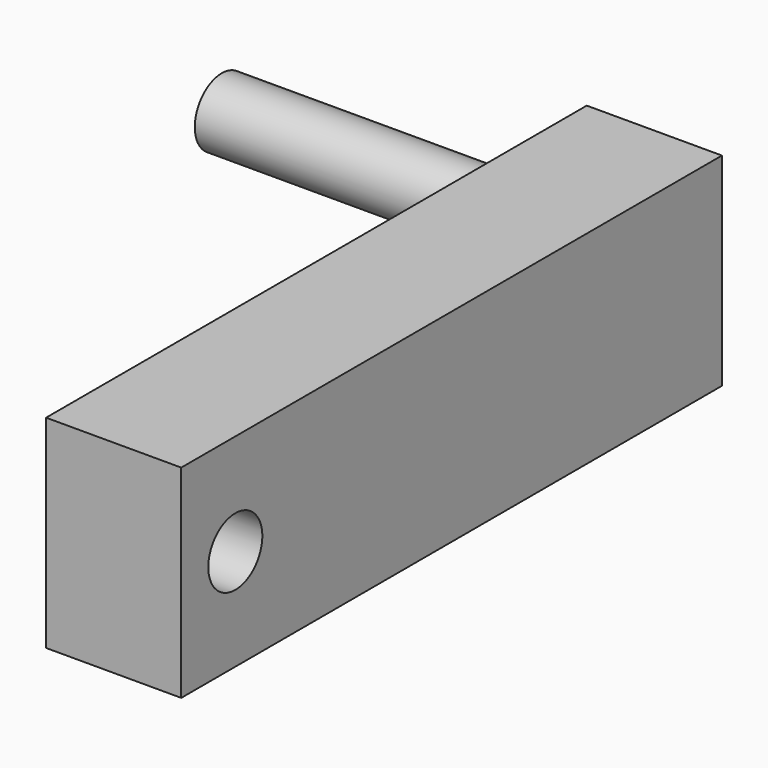
from build123d import *

# Parameters (mm, degrees)
F1_DEPTH = 35.56
F0_R     = 2.54
F2_DEPTH = 10.16
F3_DEPTH = 10.16


with BuildPart() as f1:
    # F0 (on Right) → F1 (new body)
    with BuildSketch(Plane.YZ):
        with BuildLine():
            ThreePointArc((29.046643, 0), (26.506643, 2.54), (23.966643, 0))
            ThreePointArc((23.966643, 0), (26.506643, -2.54), (29.046643, 0))
        make_face()
    extrude(amount=-F1_DEPTH)

    # F0 (on Right) → F2 (join)
    with BuildSketch(Plane.YZ):
        Polygon((23.966643, 7.62), (-21.753357, 7.62), (-21.753357, -7.62), (23.966643, -7.62), (23.966643, 0), align=None)
        with Locations((-16.673357, 0)):
            Circle(F0_R, mode=Mode.SUBTRACT)
        with BuildLine():
            ThreePointArc((29.046643, 0), (26.506643, -2.54), (23.966643, 0))
            Line((23.966643, 0), (23.966643, -7.62))
            Line((23.966643, -7.62), (29.046643, -7.62))
            Line((29.046643, -7.62), (29.046643, 0))
        make_face()
    extrude(amount=-F2_DEPTH)

    # F0 (on Right) → F3 (join)
    with BuildSketch(Plane.YZ):
        with BuildLine():
            Line((29.046643, 7.62), (23.966643, 7.62))
            Line((23.966643, 7.62), (23.966643, 0))
            ThreePointArc((23.966643, 0), (26.506643, 2.54), (29.046643, 0))
            Line((29.046643, 0), (29.046643, 7.62))
        make_face()
    extrude(amount=-F3_DEPTH)


solid = f1.part
